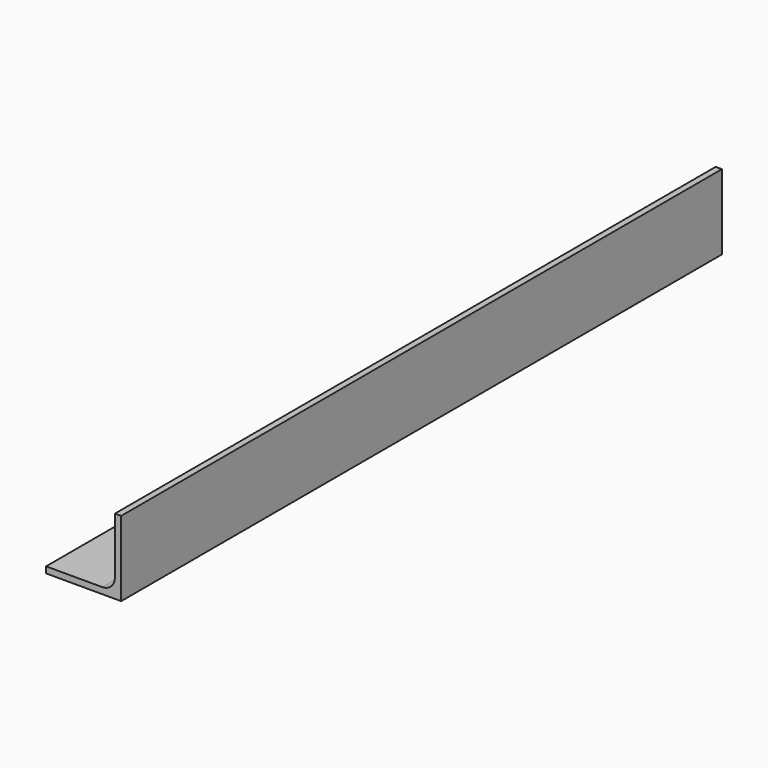
from build123d import *

# Parameters (mm, degrees)
F1_DEPTH = 381


with BuildPart() as f1:
    # F0 (on Front) → F1 (new body)
    with BuildSketch(Plane.XZ):
        with BuildLine():
            Line((-5.119123, 0), (0, 0))
            Line((0, 0), (0, 5.687915))
            Line((0, 5.687915), (0, 38.1))
            Line((0, 38.1), (-3.175, 38.1))
            Line((-3.175, 38.1), (-3.175, 9.525))
            ThreePointArc((-3.175, 9.525), (-5.034872, 5.034872), (-9.525, 3.175))
            Line((-9.525, 3.175), (-38.1, 3.175))
            Line((-38.1, 3.175), (-38.1, 0))
            Line((-38.1, 0), (-5.119123, 0))
        make_face()
    extrude(amount=F1_DEPTH)


solid = f1.part
